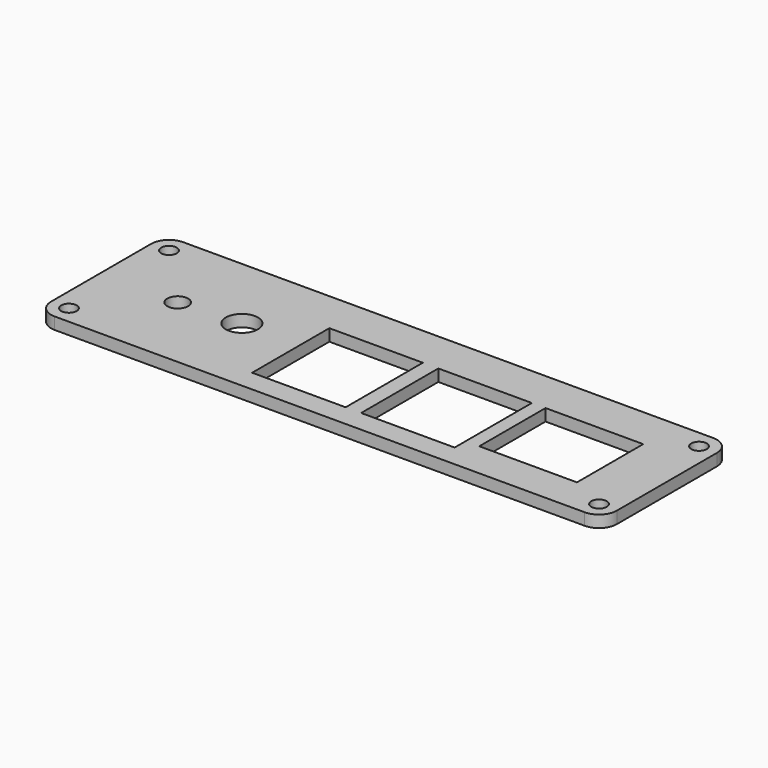
from build123d import *

# Parameters (mm, degrees)
SKETCH006_W     = 95
SKETCH006_H     = 27
PAD003_DEPTH    = 2
SKETCH007_R     = 1.3
POCKET003_DEPTH = 2
FILLET003_R     = 3
SKETCH008_R     = 1.75
SKETCH008_R_2   = 2.7
POCKET004_DEPTH = 2
SKETCH009_W     = 15.7
SKETCH009_H     = 16.2
SKETCH009_W_2   = 16.4
SKETCH009_H_2   = 13.9
POCKET005_DEPTH = 2


with BuildPart() as part:
    # Sketch006 → Pad003 (new body)
    with BuildSketch(Plane.XY):
        Rectangle(SKETCH006_W, SKETCH006_H)
    extrude(amount=PAD003_DEPTH)

    # Sketch007 (on Face6 of Pad003) → Pocket003 (cut)
    with BuildSketch(Plane.XY.offset(2)):
        with Locations((-44.5, 10.5)):
            Circle(SKETCH007_R)
        with Locations((44.5, 10.5)):
            Circle(SKETCH007_R)
        with Locations((44.5, -10.5)):
            Circle(SKETCH007_R)
        with Locations((-44.5, -10.5)):
            Circle(SKETCH007_R)
    extrude(amount=-POCKET003_DEPTH, mode=Mode.SUBTRACT)

    # Fillet003
    fillet003_edges = [part.edges().sort_by_distance(p)[0] for p in [
        (-47.5, -13.5, 1),
        (47.5, -13.5, 1),
        (47.5, 13.5, 1),
        (-47.5, 13.5, 1),
    ]]
    fillet(fillet003_edges, radius=FILLET003_R)

    # Sketch008 (on Face5 of Fillet003) → Pocket004 (cut)
    with BuildSketch(Plane.XY.offset(2)):
        with Locations((-34.4, -0.3)):
            Circle(SKETCH008_R)
        with Locations((-24.1, 0.3)):
            Circle(SKETCH008_R_2)
    extrude(amount=-POCKET004_DEPTH, mode=Mode.SUBTRACT)

    # Sketch009 (on Face5 of Pocket004) → Pocket005 (cut)
    with BuildSketch(Plane.XY.offset(2)):
        with Locations((-6.45, -1.7)):
            Rectangle(SKETCH009_W, SKETCH009_H)
        with Locations((11.85, -1.7)):
            Rectangle(SKETCH009_W, SKETCH009_H)
        with Locations((30.2, -0.55)):
            Rectangle(SKETCH009_W_2, SKETCH009_H_2)
    extrude(amount=-POCKET005_DEPTH, mode=Mode.SUBTRACT)


with BuildPart() as part_1:
    # Body002 placement: moved
    add(part.part.moved(Location((0, -1.2, 135.4))))


solid = part_1.part
